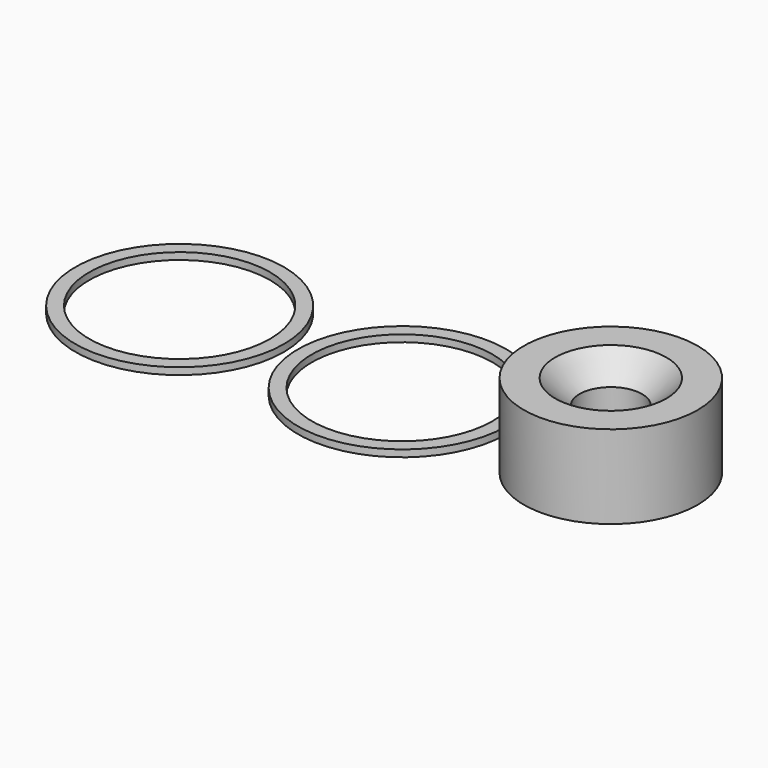
from build123d import *

# Parameters (mm, degrees)
F0_R     = 7.5
F0_R_2   = 6.5
F1_DEPTH = 0.5
F2_R     = 6.25
F3_DEPTH = 6
F4_R     = 4
F5_DEPTH = 2
F5_TAPER = 45
F6_R     = 2.25
F7_DEPTH = 6


with BuildPart() as f1:
    # F0 (on Top) → F1 (new body)
    with BuildSketch(Plane.XY):
        Circle(F0_R)
        Circle(F0_R_2, mode=Mode.SUBTRACT)
    extrude(amount=F1_DEPTH)


with BuildPart() as f1b:
    # F0 (on Top) → F1, piece 2 (new body)
    with BuildSketch(Plane.XY):
        with Locations((16, 0)):
            Circle(F0_R)
        with Locations((16, 0)):
            Circle(F0_R_2, mode=Mode.SUBTRACT)
    extrude(amount=F1_DEPTH)


with BuildPart() as f3:
    # F2 (on Top) → F3 (new body)
    with BuildSketch(Plane.XY):
        with Locations((31, 0)):
            Circle(F2_R)
    extrude(amount=F3_DEPTH)

    # F4 (on face) → F5 (cut)
    with BuildSketch(Plane.XY.offset(6)):
        with Locations((31, 0)):
            Circle(F4_R)
    extrude(amount=-F5_DEPTH, taper=F5_TAPER, mode=Mode.SUBTRACT)

    # F6 (on face) → F7 (cut, through all)
    with BuildSketch(Plane.XY.offset(6)):
        with Locations((31, 0)):
            Circle(F6_R)
    extrude(amount=-F7_DEPTH, mode=Mode.SUBTRACT)


solid = Compound([f1.part, f1b.part, f3.part])
